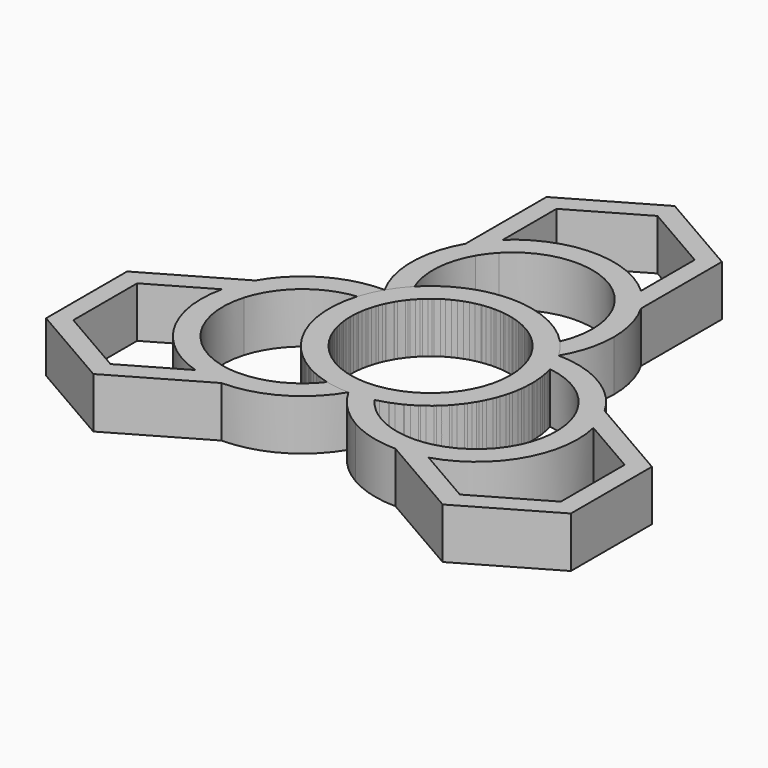
from build123d import *

# Parameters (mm, degrees)
F1_DEPTH = 7
F2_DEPTH = 7
F3_DEPTH = 7
F5_COUNT = 3


with BuildPart() as f1:
    # F0 (on Top) → F1 (new body)
    with BuildSketch(Plane.XY):
        with BuildLine():
            ThreePointArc((10.1799930443, 4.2330091681), (10.8116846124, 2.1582633859), (11.025, 0))
            ThreePointArc((11.025, 0), (-2.2731871952, -10.7881066446), (-10.0876067983, 4.4486867818))
            ThreePointArc((-10.0876067983, 4.4486867818), (-11.1481438701, 5.730279936), (-12.049182956, 7.1286176846))
            ThreePointArc((-12.049182956, 7.1286176846), (-3.6953645704, -13.503491426), (14, 0))
            ThreePointArc((14, 0), (13.5420488999, 3.5514661188), (12.1981554868, 6.8705896924))
            ThreePointArc((12.1981554868, 6.8705896924), (11.2675630021, 5.4917432466), (10.1799930443, 4.2330091681))
        make_face()
        with BuildLine():
            ThreePointArc((-8.4417791659, 7.0913319985), (0.117315868, 11.0243758094), (8.5907751584, 6.9100801137))
            ThreePointArc((8.5907751584, 6.9100801137), (9.506834428, 8.1725292777), (10.2355402969, 9.5516341445))
            ThreePointArc((10.2355402969, 9.5516341445), (5.6484293022, 12.8099666829), (0.1489725308, 13.999207377))
            ThreePointArc((0.1489725308, 13.999207377), (-5.3745465865, 12.9272676537), (-10.0299580197, 9.7672893948))
            ThreePointArc((-10.0299580197, 9.7672893948), (-9.3307653302, 8.3729895491), (-8.4417791659, 7.0913319985))
        make_face()
        with BuildLine():
            ThreePointArc((-12.049182956, 7.1286176846), (-11.1481438701, 5.730279936), (-10.0876067983, 4.4486867818))
            ThreePointArc((-10.0876067983, 4.4486867818), (-9.3584416164, 5.8283956207), (-8.4417791659, 7.0913319985))
            ThreePointArc((-8.4417791659, 7.0913319985), (-9.3307653302, 8.3729895491), (-10.0299580197, 9.7672893948))
            ThreePointArc((-10.0299580197, 9.7672893948), (-11.1181277045, 8.5080688964), (-12.049182956, 7.1286176846))
        make_face()
        with BuildLine():
            ThreePointArc((8.5907751584, 6.9100801137), (9.4803539988, 5.6279226236), (10.1799930443, 4.2330091681))
            ThreePointArc((10.1799930443, 4.2330091681), (11.2675630021, 5.4917432466), (12.1981554868, 6.8705896924))
            ThreePointArc((12.1981554868, 6.8705896924), (11.2966666087, 8.2695419179), (10.2355402969, 9.5516341445))
            ThreePointArc((10.2355402969, 9.5516341445), (9.506834428, 8.1725292777), (8.5907751584, 6.9100801137))
        make_face()
    extrude(amount=F1_DEPTH)

    # F0 (on Top) → F2 (join)
    with BuildSketch(Plane.XY):
        with BuildLine():
            ThreePointArc((10.2355402969, 9.5516341445), (11.2966666087, 8.2695419179), (12.1981554868, 6.8705896924))
            ThreePointArc((12.1981554868, 6.8705896924), (13.6524639568, 10.3038428066), (14.1489725308, 13.999207377))
            ThreePointArc((14.1489725308, 13.999207377), (13.6719340988, 17.6226740085), (12.2733281838, 20.999207377))
            Line((12.2733281838, 20.999207377), (9.695690172, 19.511007377))
            ThreePointArc((9.695690172, 19.511007377), (10.7969524695, 16.8523250026), (11.1725725308, 13.999207377))
            ThreePointArc((11.1725725308, 13.999207377), (10.9357710685, 11.7266022053), (10.2355402969, 9.5516341445))
        make_face()
        with BuildLine():
            ThreePointArc((-11.9753831222, 20.999207377), (-13.8508293121, 14.0736946967), (-12.049182956, 7.1286176846))
            ThreePointArc((-12.049182956, 7.1286176846), (-11.1181277045, 8.5080688964), (-10.0299580197, 9.7672893948))
            ThreePointArc((-10.0299580197, 9.7672893948), (-10.8514960581, 14.7129634877), (-9.3977451104, 19.511007377))
            Line((-9.3977451104, 19.511007377), (-11.9753831222, 20.999207377))
        make_face()
    extrude(amount=F2_DEPTH)

    # F0 (on Top) → F3 (join)
    with BuildSketch(Plane.XY):
        with BuildLine():
            Line((9.695690172, 19.511007377), (12.2733281838, 20.999207377))
            ThreePointArc((12.2733281838, 20.999207377), (11.104950748, 22.7150860651), (9.695690172, 24.2393334641))
            Line((9.695690172, 24.2393334641), (9.695690172, 22.487407377))
            Line((9.695690172, 22.487407377), (8.1422144183, 21.5905077325))
            ThreePointArc((8.1422144183, 21.5905077325), (8.9803725047, 20.5966410797), (9.695690172, 19.511007377))
        make_face()
        with BuildLine():
            ThreePointArc((-9.3977451104, 24.2393334641), (-10.8070056864, 22.7150860651), (-11.9753831222, 20.999207377))
            Line((-11.9753831222, 20.999207377), (-9.3977451104, 19.511007377))
            ThreePointArc((-9.3977451104, 19.511007377), (-8.6824274431, 20.5966410797), (-7.8442693568, 21.5905077325))
            Line((-7.8442693568, 21.5905077325), (-9.3977451104, 22.487407377))
            Line((-9.3977451104, 22.487407377), (-9.3977451104, 24.2393334641))
        make_face()
        with BuildLine():
            Line((-11.9753831222, 34.999207377), (-11.9753831222, 20.999207377))
            ThreePointArc((-11.9753831222, 20.999207377), (-10.8070056864, 22.7150860651), (-9.3977451104, 24.2393334641))
            Line((-9.3977451104, 24.2393334641), (-9.3977451104, 33.511007377))
            Line((-9.3977451104, 33.511007377), (0.1489725308, 39.022807377))
            Line((0.1489725308, 39.022807377), (9.695690172, 33.511007377))
            Line((9.695690172, 33.511007377), (9.695690172, 24.2393334641))
            ThreePointArc((9.695690172, 24.2393334641), (11.104950748, 22.7150860651), (12.2733281838, 20.999207377))
            Line((12.2733281838, 20.999207377), (12.2733281838, 34.999207377))
            Line((12.2733281838, 34.999207377), (0.1489725308, 41.999207377))
            Line((0.1489725308, 41.999207377), (-11.9753831222, 34.999207377))
        make_face()
        with BuildLine():
            ThreePointArc((9.695690172, 24.2393334641), (0.1489725308, 27.999207377), (-9.3977451104, 24.2393334641))
            Line((-9.3977451104, 24.2393334641), (-9.3977451104, 22.487407377))
            Line((-9.3977451104, 22.487407377), (-7.8442693568, 21.5905077325))
            ThreePointArc((-7.8442693568, 21.5905077325), (0.1489725308, 25.022807377), (8.1422144183, 21.5905077325))
            Line((8.1422144183, 21.5905077325), (9.695690172, 22.487407377))
            Line((9.695690172, 22.487407377), (9.695690172, 24.2393334641))
        make_face()
    extrude(amount=F3_DEPTH)


with BuildPart() as f5_1:
    # F5: instance of F1
    add(f1.part.rotate(Axis((0, 0, 11.3209523261), (0, 0, 1)), 1 * 360 / F5_COUNT))


with BuildPart() as f5_2:
    # F5: instance of F1
    add(f1.part.rotate(Axis((0, 0, 11.3209523261), (0, 0, 1)), 2 * 360 / F5_COUNT))


solid = Compound([f1.part, f5_1.part, f5_2.part])
